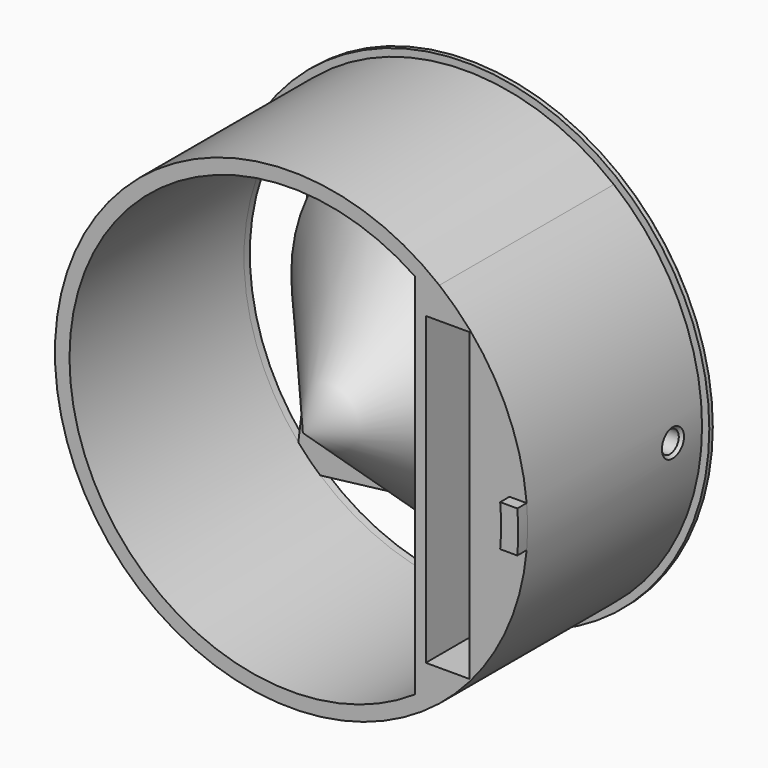
from build123d import *

# Parameters (mm, degrees)
SKETCH049_R     = 32.5
PAD011_DEPTH    = 30
SKETCH050_R     = 30.5
POCKET033_DEPTH = 30.001
SKETCH051_R     = 33.5
PAD012_DEPTH    = 1
POCKET034_DEPTH = 31.001
PAD013_DEPTH    = 31
SKETCH056_W     = 6
SKETCH056_H     = 42
POCKET035_DEPTH = 31.001
SKETCH057_R     = 1.5
POCKET036_DEPTH = 9.001
PAD014_DEPTH    = 1.6
FILLET005_R     = 5
SKETCH060_W     = 6
SKETCH060_H     = 10
PAD015_DEPTH    = 9
SKETCH062_W     = 6
SKETCH062_H     = 42
POCKET038_DEPTH = 22
CHAMFER007_SIZE = 0.4
SKETCH067_R     = 2
POCKET042_DEPTH = 32.601
CHAMFER011_SIZE = 0.4
PAD020_DEPTH    = 1
PAD021_DEPTH    = 1


with BuildPart() as part:
    # Sketch049 → Pad011 (new body)
    with BuildSketch(Plane.XZ):
        Circle(SKETCH049_R)
    extrude(amount=PAD011_DEPTH)

    # Sketch050 (on Face3 of Pad011) → Pocket033 (cut, through all)
    with BuildSketch(Plane.XZ.offset(30)):
        Circle(SKETCH050_R)
    extrude(amount=-POCKET033_DEPTH, mode=Mode.SUBTRACT)

    # Sketch051 (on Face2 of Pocket033) → Pad012 (join)
    with BuildSketch(Plane(origin=(0, 0, 0), x_dir=(1, 0, 0), z_dir=(0, 1, 0))):
        Circle(SKETCH051_R)
    extrude(amount=PAD012_DEPTH)

    # Sketch052 → Revolution (revolve)
    with BuildSketch(Plane.XY):
        Polygon((-20, 0), (0, -27.5), (0, 0), align=None)
    revolve(axis=Axis((0, 0, 0), (0, 1, 0)))

    # Sketch053 (on Face3 of Revolution) → Pocket034 (cut, through all)
    with BuildSketch(Plane(origin=(0, 1, 0), x_dir=(1, 0, 0), z_dir=(0, 1, 0))):
        with BuildLine():
            ThreePointArc((-23.027158, 20), (-30.5, 0), (-23.027158, -20))
            Line((-23.027158, -20), (-21.817424, -10))
            ThreePointArc((-21.817424, 10), (-24, 0), (-21.817424, -10))
            Line((-23.027158, 20), (-21.817424, 10))
        make_face()
        with BuildLine():
            ThreePointArc((-20, -23.027158), (0, -30.5), (20, -23.027158))
            Line((10, -21.817424), (20, -23.027158))
            ThreePointArc((-10, -21.817424), (0, -24), (10, -21.817424))
            Line((-20, -23.027158), (-10, -21.817424))
        make_face()
        with BuildLine():
            ThreePointArc((20, 23.027158), (0, 30.5), (-20, 23.027158))
            Line((-20, 23.027158), (-10, 21.817424))
            ThreePointArc((10, 21.817424), (0, 24), (-10, 21.817424))
            Line((10, 21.817424), (20, 23.027158))
        make_face()
    extrude(amount=-POCKET034_DEPTH, mode=Mode.SUBTRACT)

    # Sketch054 (on Face3 of Pocket034) → Pad013 (join)
    with BuildSketch(Plane(origin=(0, 1, 0), x_dir=(1, 0, 0), z_dir=(0, 1, 0))):
        with BuildLine():
            ThreePointArc((20.371549, -25.322915), (32.5, 0), (20.371549, 25.322915))
            Line((20.371549, 25.322915), (17, 25.322915))
            Line((17, -25.322915), (17, 25.322915))
            Line((20.371549, -25.322915), (17, -25.322915))
        make_face()
    extrude(amount=-PAD013_DEPTH)

    # Sketch056 (on Face3 of Pad013) → Pocket035 (cut, through all)
    with BuildSketch(Plane(origin=(0, 1, 0), x_dir=(1, 0, 0), z_dir=(0, 1, 0))):
        with Locations((21.5, 0)):
            Rectangle(SKETCH056_W, SKETCH056_H)
    extrude(amount=-POCKET035_DEPTH, mode=Mode.SUBTRACT)

    # Sketch057 (on Face18 of Pocket035) → Pocket036 (cut, through all)
    with BuildSketch(Plane(origin=(24.5, 0, 0), x_dir=(0, 0, -1), z_dir=(-1, 0, 0))):
        with Locations((0, 5)):
            Circle(SKETCH057_R)
    extrude(amount=-POCKET036_DEPTH, mode=Mode.SUBTRACT)

    # Sketch058 (on Face21 of Pocket036) → Pad014 (join)
    with BuildSketch(Plane.XZ.offset(30)):
        with BuildLine():
            ThreePointArc((32.374797, -2.85), (32.5, 0), (32.374797, 2.85))
            Line((30.014996, 2.85), (32.374797, 2.85))
            ThreePointArc((30.014996, -2.85), (30.15, 0), (30.014996, 2.85))
            Line((30.014996, -2.85), (32.374797, -2.85))
        make_face()
    extrude(amount=PAD014_DEPTH)

    # Fillet005
    fillet005_edges = [part.edges().sort_by_distance(p)[0] for p in [
        (24.5, -14.5, 21),
        (24.5, -14.5, -21),
    ]]
    fillet(fillet005_edges, radius=FILLET005_R)

    # Sketch060 (on Face1 of Fillet005) → Pad015 (join)
    with BuildSketch(Plane(origin=(0, 1, 0), x_dir=(1, 0, 0), z_dir=(0, 1, 0))):
        with Locations((21.5, 0)):
            Rectangle(SKETCH060_W, SKETCH060_H)
    extrude(amount=-PAD015_DEPTH)

    # Sketch061 → Revolution001 (revolve)
    with BuildSketch(Plane.XY):
        Polygon((-24, 0), (0, -28), (0, 0), align=None)
    revolve(axis=Axis((0, 0, 0), (0, 1, 0)))

    # Sketch062 (on Face21 of Revolution001) → Pocket038 (cut)
    with BuildSketch(Plane.XZ.offset(30)):
        with Locations((21.5, 0)):
            Rectangle(SKETCH062_W, SKETCH062_H)
    extrude(amount=-POCKET038_DEPTH, mode=Mode.SUBTRACT)

    # Chamfer007
    chamfer007_edges = [part.edges().sort_by_distance(p)[0] for p in [
        (-33.5, 1, 0),
        (32.482688, -6.06066, -1.06066),
    ]]
    chamfer(chamfer007_edges, length=CHAMFER007_SIZE)

    # Sketch067 (on Face1 of Chamfer007) → Pocket042 (cut, through all)
    with BuildSketch(Plane(origin=(0, 1, 0), x_dir=(1, 0, 0), z_dir=(0, 1, 0))):
        with Locations((15, 0)):
            Circle(SKETCH067_R)
    extrude(amount=-POCKET042_DEPTH, mode=Mode.SUBTRACT)

    # Chamfer011
    chamfer011_edges = [part.edges().sort_by_distance(p)[0] for p in [
        (13, 1, 0),
    ]]
    chamfer(chamfer011_edges, length=CHAMFER011_SIZE)

    # Chamfer011 Face35 → Pad020 (add)
    with BuildSketch(Plane(origin=(20.341956, 0, 8.743203), x_dir=(1, 0, 0), z_dir=(0, 1, 0))):
        with BuildLine():
            ThreePointArc((-1.841956, -6.545682), (1.266066, -1.701574), (3.131433, 3.743203))
            Line((3.131433, 3.743203), (-1.841956, 3.743203))
            Line((-1.841956, 3.743203), (-1.841956, -6.545682))
        make_face()
    extrude(amount=PAD020_DEPTH)

    # Pad020 Face42 → Pad021 (add)
    with BuildSketch(Plane(origin=(20.341956, 0, -8.743203), x_dir=(1, 0, 0), z_dir=(0, 1, 0))):
        with BuildLine():
            Line((-1.841956, 6.545682), (-1.841956, -3.743203))
            Line((-1.841956, -3.743203), (3.131433, -3.743203))
            ThreePointArc((3.131433, -3.743203), (1.266066, 1.701574), (-1.841956, 6.545682))
        make_face()
    extrude(amount=PAD021_DEPTH)


with BuildPart() as part_1:
    # Body006 placement: moved
    add(part.part.moved(Location((0, 140, 0))))


solid = part_1.part
